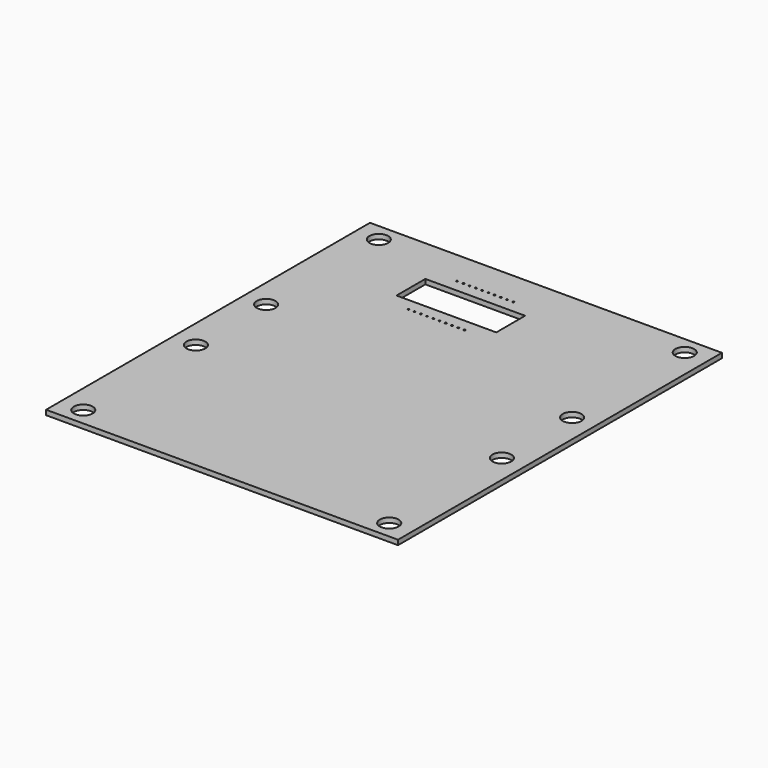
from build123d import *

# Parameters (mm, degrees)
F0_W     = 127
F0_H     = 146.1
F0_R     = 3.4
F0_R_2   = 0.3
F0_W_2   = 36
F0_H_2   = 13
F1_DEPTH = 1.75


with BuildPart() as f1:
    # F0 (on Top) → F1 (new body)
    with BuildSketch(Plane.XY):
        with Locations((-4.584216, 10.807483)):
            Rectangle(F0_W, F0_H)
        with Locations((-59.784216, -55.842517)):
            Circle(F0_R, mode=Mode.SUBTRACT)
        with Locations((-59.784216, -5.042517)):
            Circle(F0_R, mode=Mode.SUBTRACT)
        with Locations((50.615784, -55.842517)):
            Circle(F0_R, mode=Mode.SUBTRACT)
        with Locations((50.615784, -5.042517)):
            Circle(F0_R, mode=Mode.SUBTRACT)
        with Locations((-59.784216, 26.657483)):
            Circle(F0_R, mode=Mode.SUBTRACT)
        with Locations((-59.784216, 77.457483)):
            Circle(F0_R, mode=Mode.SUBTRACT)
        with Locations((-26.629061, 49.357483)):
            Circle(F0_R_2, mode=Mode.SUBTRACT)
        with Locations((-24.379061, 49.357483)):
            Circle(F0_R_2, mode=Mode.SUBTRACT)
        with Locations((-22.129061, 49.357483)):
            Circle(F0_R_2, mode=Mode.SUBTRACT)
        with Locations((-19.879061, 49.357483)):
            Circle(F0_R_2, mode=Mode.SUBTRACT)
        with Locations((-17.629061, 49.357483)):
            Circle(F0_R_2, mode=Mode.SUBTRACT)
        with Locations((-15.379061, 49.357483)):
            Circle(F0_R_2, mode=Mode.SUBTRACT)
        with Locations((-13.129061, 49.357483)):
            Circle(F0_R_2, mode=Mode.SUBTRACT)
        with Locations((-10.879061, 49.357483)):
            Circle(F0_R_2, mode=Mode.SUBTRACT)
        with Locations((-8.629061, 49.357483)):
            Circle(F0_R_2, mode=Mode.SUBTRACT)
        with Locations((-6.379061, 49.357483)):
            Circle(F0_R_2, mode=Mode.SUBTRACT)
        with Locations((-16.504061, 60.357483)):
            Rectangle(F0_W_2, F0_H_2, mode=Mode.SUBTRACT)
        with Locations((-26.629061, 71.357483)):
            Circle(F0_R_2, mode=Mode.SUBTRACT)
        with Locations((-24.379061, 71.357483)):
            Circle(F0_R_2, mode=Mode.SUBTRACT)
        with Locations((-22.129061, 71.357483)):
            Circle(F0_R_2, mode=Mode.SUBTRACT)
        with Locations((-19.879061, 71.357483)):
            Circle(F0_R_2, mode=Mode.SUBTRACT)
        with Locations((-17.629061, 71.357483)):
            Circle(F0_R_2, mode=Mode.SUBTRACT)
        with Locations((-15.379061, 71.357483)):
            Circle(F0_R_2, mode=Mode.SUBTRACT)
        with Locations((-13.129061, 71.357483)):
            Circle(F0_R_2, mode=Mode.SUBTRACT)
        with Locations((-10.879061, 71.357483)):
            Circle(F0_R_2, mode=Mode.SUBTRACT)
        with Locations((-8.629061, 71.357483)):
            Circle(F0_R_2, mode=Mode.SUBTRACT)
        with Locations((-6.379061, 71.357483)):
            Circle(F0_R_2, mode=Mode.SUBTRACT)
        with Locations((50.615784, 26.657483)):
            Circle(F0_R, mode=Mode.SUBTRACT)
        with Locations((50.615784, 77.457483)):
            Circle(F0_R, mode=Mode.SUBTRACT)
    extrude(amount=F1_DEPTH)


solid = f1.part
